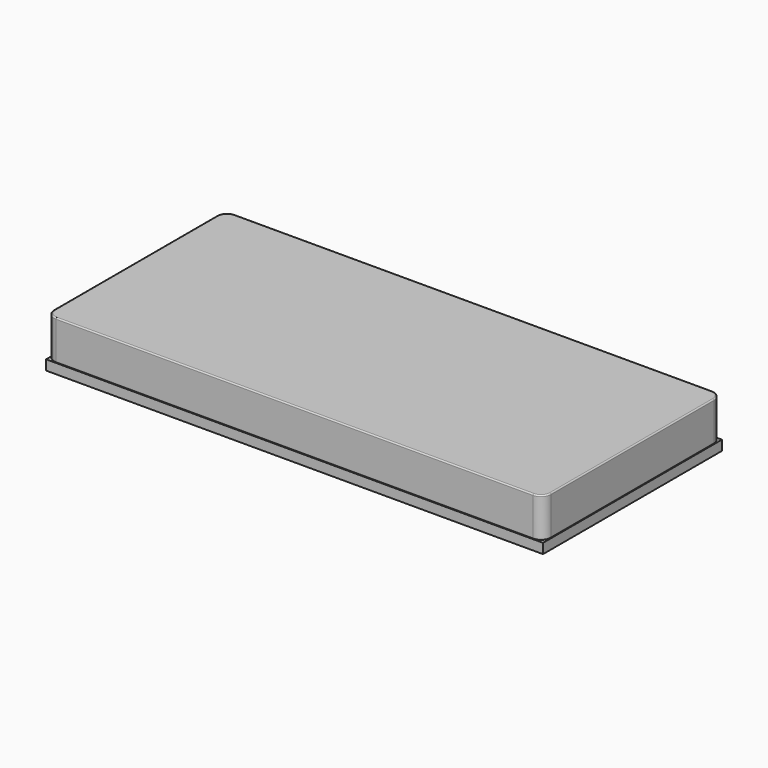
from build123d import *

# Parameters (mm, degrees)
F0_W     = 2000
F0_H     = 900
F1_DEPTH = 40
F2_DEPTH = 160
F3_R     = 40
F4_R     = 5


with BuildPart() as f1:
    # F0 (on Top) → F1 (new body)
    with BuildSketch(Plane.XY):
        with Locations((1000, -450)):
            Rectangle(F0_W, F0_H)
    extrude(amount=F1_DEPTH)


with BuildPart() as f2:
    # F2 (new): a face of the model
    f2_faces = [f1.part.faces().sort_by_distance(p)[0] for p in [
        (1000, -450, 40),
    ]]
    extrude(f2_faces, amount=F2_DEPTH)

    # F3
    f3_edges = [f2.edges().sort_by_distance(p)[0] for p in [
        (0, -900, 120),
        (0, 0, 120),
        (2000, -900, 120),
        (2000, 0, 120),
    ]]
    fillet(f3_edges, radius=F3_R)

    # F4
    f4_edges = [f2.edges().sort_by_distance(p)[0] for p in [
        (2000, -450, 200),
        (0, -450, 200),
        (1000, 0, 40),
        (1000, 0, 200),
        (1000, -900, 200),
        (1988.284271, -11.715729, 200),
        (40, -900, 120),
        (0, -860, 120),
        (2000, -450, 40),
        (11.715729, -11.715729, 200),
        (0, -450, 40),
        (11.715729, -888.284271, 40),
        (40, 0, 120),
        (1988.284271, -11.715729, 40),
        (0, -40, 120),
        (1960, 0, 120),
        (2000, -40, 120),
        (11.715729, -888.284271, 200),
        (1000, -900, 40),
        (11.715729, -11.715729, 40),
        (2000, -860, 120),
        (1988.284271, -888.284271, 200),
        (1988.284271, -888.284271, 40),
        (1960, -900, 120),
    ]]
    fillet(f4_edges, radius=F4_R)


solid = Compound([f1.part, f2.part])
